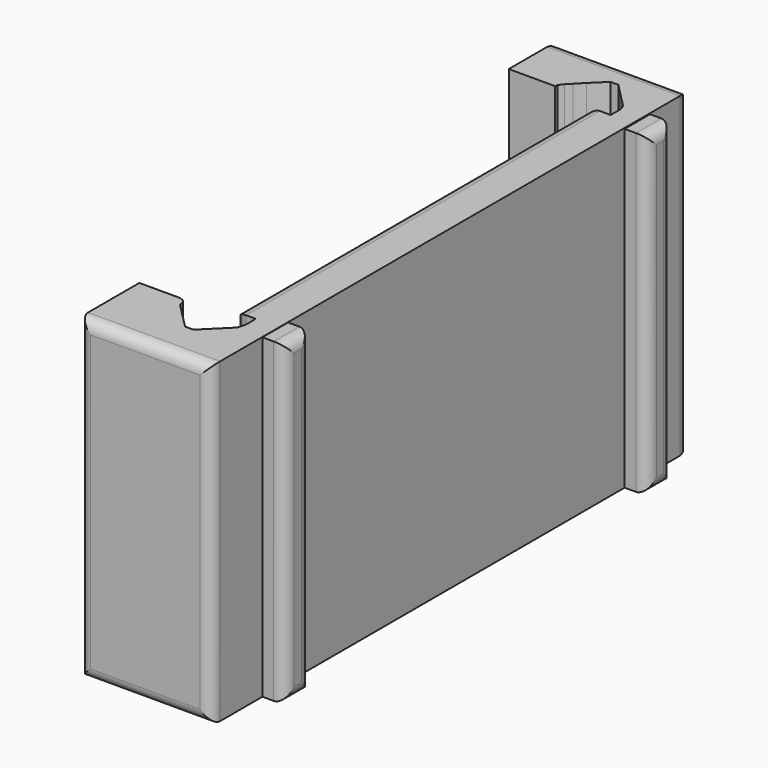
from build123d import *

# Parameters (mm, degrees)
PAD_DEPTH    = 28
SKETCH002_W  = 2.838082
SKETCH002_H  = 27.969857
PAD001_DEPTH = 2
FILLET_R     = 1
SKETCH003_W  = 2.802156
SKETCH003_H  = 27.921276
PAD002_DEPTH = 2
FILLET001_R  = 1
FILLET002_R  = 1
FILLET003_R  = 1
FILLET004_R  = 1


with BuildPart() as part:
    # Sketch001 → Pad (new body)
    with BuildSketch(Plane.XY):
        Polygon((7.12948, 20.78117), (7.445243, 21.187149), (7.854891, 21.607611), (8.508251, 22.283501), (9.696487, 23.44212), (10.384461, 23.44212), (12.655314, 21.14204), (12.798072, 20.62591), (12.798072, 19.983595), (12.798072, 19.585785), (10.85096, 19.585785), (10.85096, 17.475296), (10.85096, 14.854997), (10.85096, -19.505323), (12.701512, -19.51746), (12.724067, -20.600073), (12.521076, -21.321814), (10.456077, -23.362608), (10.24308, -23.464483), (9.610203, -23.458431), (7.33356, -21.163933), (7.172753, -20.632019), (7.013088, -20.473427), (6.702209, -20.340731), (3.07281, -20.340731), (3.07281, -27.006718), (14.752544, -27.006718), (14.752544, 25.795757), (3.011012, 25.795757), (3.011012, 20.555626), (7.106926, 20.555626), align=None)
    extrude(amount=PAD_DEPTH)

    # Sketch002 → Pad001 (new body)
    with BuildSketch(Plane.YZ.offset(14.752544)):
        with Locations((-19.919058, 13.984928)):
            Rectangle(SKETCH002_W, SKETCH002_H)
    extrude(amount=PAD001_DEPTH)

    # Fillet
    fillet_edges = [part.edges().sort_by_distance(p)[0] for p in [
        (16.752544, -19.919058, 27.969857),
        (16.752544, -18.500017, 13.984929),
        (16.752544, -19.919058, 0),
        (16.752544, -21.338099, 13.984929),
    ]]
    fillet(fillet_edges, radius=FILLET_R)

    # Sketch003 → Pad002 (new body)
    with BuildSketch(Plane.YZ.offset(14.752544)):
        with Locations((20.083518, 13.960638)):
            Rectangle(SKETCH003_W, SKETCH003_H)
    extrude(amount=PAD002_DEPTH)

    # Fillet001
    fillet001_edges = [part.edges().sort_by_distance(p)[0] for p in [
        (16.752544, 20.083518, 27.921276),
        (16.752544, 21.484596, 13.960638),
        (16.752544, 20.083518, 0),
        (16.752544, 18.68244, 13.960638),
    ]]
    fillet(fillet001_edges, radius=FILLET001_R)

    # Fillet002
    fillet002_edges = [part.edges().sort_by_distance(p)[0] for p in [
        (3.07281, -27.006718, 14),
        (14.752544, -27.006718, 14),
        (8.912677, -27.006718, 0),
        (8.912677, -27.006718, 28),
    ]]
    fillet(fillet002_edges, radius=FILLET002_R)

    # Fillet003
    fillet003_edges = [part.edges().sort_by_distance(p)[0] for p in [
        (14.752544, 25.795757, 14),
        (3.011012, 25.795757, 14),
        (8.881778, 25.795757, 0),
        (8.881778, 25.795757, 28),
    ]]
    fillet(fillet003_edges, radius=FILLET003_R)

    # Fillet004
    fillet004_edges = [part.edges().sort_by_distance(p)[0] for p in [
        (10.85096, 19.585785, 14),
        (10.85096, 0.040231, 0),
        (10.85096, -19.505323, 14),
        (10.85096, 0.040231, 28),
    ]]
    fillet(fillet004_edges, radius=FILLET004_R)


solid = part.part
